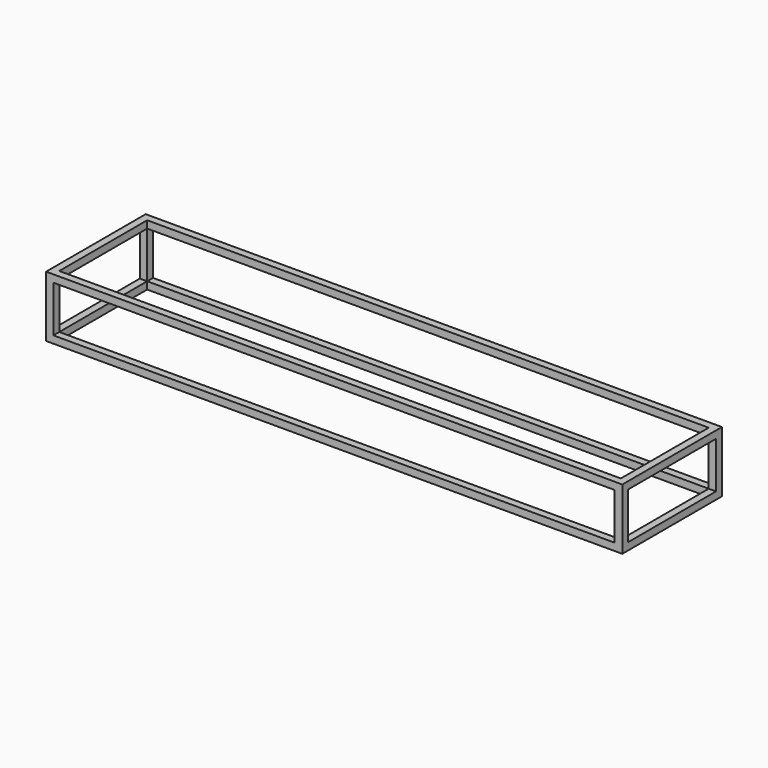
from build123d import *

# Parameters (mm, degrees)
F0_W      = 1180
F0_H      = 255
F0_W_2    = 1150
F0_H_2    = 225
F1_DEPTH  = 15
F3_DEPTH  = 15
F5_DEPTH  = 15
F8_DEPTH  = 15
F10_W     = 1150
F10_H     = 15
F11_DEPTH = 15


with BuildPart() as f1:
    # F0 (on Top) → F1 (new body)
    with BuildSketch(Plane.XY):
        with Locations((-590, 127.5)):
            Rectangle(F0_W, F0_H)
        with Locations((-590, 127.5)):
            Rectangle(F0_W_2, F0_H_2, mode=Mode.SUBTRACT)
    extrude(amount=F1_DEPTH)

    # F2 (on Front) → F3 (join)
    with BuildSketch(Plane.XZ):
        Polygon((0, -110), (0, 0), (-15.9693145752, 0), (-15.9693145752, -15), (-15.9693145752, -95), (-1165, -95), (-1165, -15), (-1165, 0), (-1180, 0), (-1180, -110), align=None)
    extrude(amount=-F3_DEPTH)

    # F4 (on Right) → F5 (join)
    with BuildSketch(Plane.YZ):
        Polygon((15, -95), (15, -110), (255, -110), (255, 0), (240, 0), (240, -95), align=None)
    extrude(amount=-F5_DEPTH)


with BuildPart() as f8:
    # F7 (on offset) → F8 (new body)
    with BuildSketch(Plane(origin=(-1180, 0, 0), x_dir=(0, -1, 0), z_dir=(-1, 0, 0))):
        Polygon((-255, -110), (-15, -110), (-15, -95), (-240, -95), (-240, 0), (-255, 0), align=None)
    extrude(amount=-F8_DEPTH)


with BuildPart() as f11:
    # F10 (on offset) → F11 (new body)
    with BuildSketch(Plane(origin=(0, 255, 0), x_dir=(-1, 0, 0), z_dir=(0, 1, 0))):
        with Locations((590, -102.5)):
            Rectangle(F10_W, F10_H)
    extrude(amount=-F11_DEPTH)


solid = Compound([f1.part, f8.part, f11.part])
